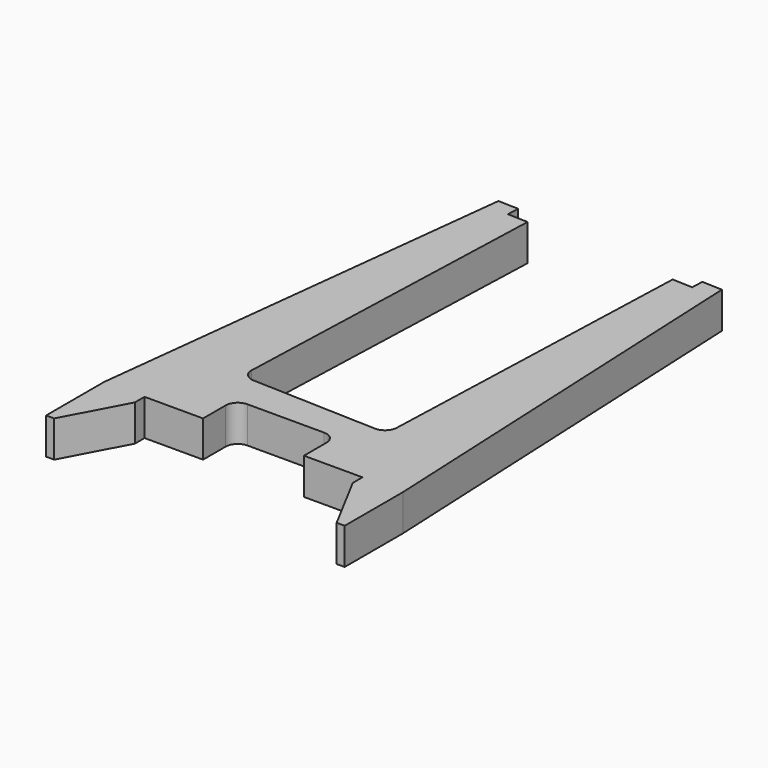
from build123d import *

# Parameters (mm, degrees)
F1_DEPTH = 4.5


with BuildPart() as f1:
    # F0 (on Top) → F1 (new body, symmetric)
    with BuildSketch(Plane.XY):
        with BuildLine():
            Line((-27, -3), (-27, 0))
            Line((-27, 0), (-12.5, 0))
            Line((-12.5, 0), (-12.5, 7))
            ThreePointArc((-12.5, 7), (-11.6213203436, 9.1213203436), (-9.5, 10))
            Line((-9.5, 10), (9.5, 10))
            ThreePointArc((9.5, 10), (11.6213203436, 9.1213203436), (12.5, 7))
            Line((12.5, 7), (12.5, 0))
            Line((12.5, 0), (27, 0))
            Line((27, 0), (27, -3))
            Line((27, -3), (35, -18))
            Line((35, -18), (37, -18))
            Line((37, -18), (37, 0))
            Line((37, 0), (32.1797316785, 104.8762590077))
            Line((32.1797316785, 104.8762590077), (27.1827775434, 105.0507564913))
            Line((27.1827775434, 105.0507564913), (27.0780790533, 102.0525840102))
            Line((27.0780790533, 102.0525840102), (22.0811249182, 102.2270814937))
            Line((22.0811249182, 102.2270814937), (19.2220026408, 20.3525317921))
            ThreePointArc((19.2220026408, 20.3525317921), (18.2698252399, 18.2631691773), (16.1191316696, 17.4590578011))
            Line((16.1191316696, 17.4590578011), (-14.8619839679, 18.5409421989))
            ThreePointArc((-14.8619839679, 18.5409421989), (-16.9513465827, 19.4931195998), (-17.7554579589, 21.6438131701))
            Line((-17.7554579589, 21.6438131701), (-14.8963356815, 103.5183628717))
            Line((-14.8963356815, 103.5183628717), (-19.8932898166, 103.6928603552))
            Line((-19.8932898166, 103.6928603552), (-19.7885913265, 106.6910328363))
            Line((-19.7885913265, 106.6910328363), (-24.7855454616, 106.8655303198))
            Line((-24.7855454616, 106.8655303198), (-37, 0))
            Line((-37, 0), (-37, -18))
            Line((-37, -18), (-35, -18))
            Line((-35, -18), (-27, -3))
        make_face()
    extrude(amount=F1_DEPTH, both=True)


solid = f1.part
